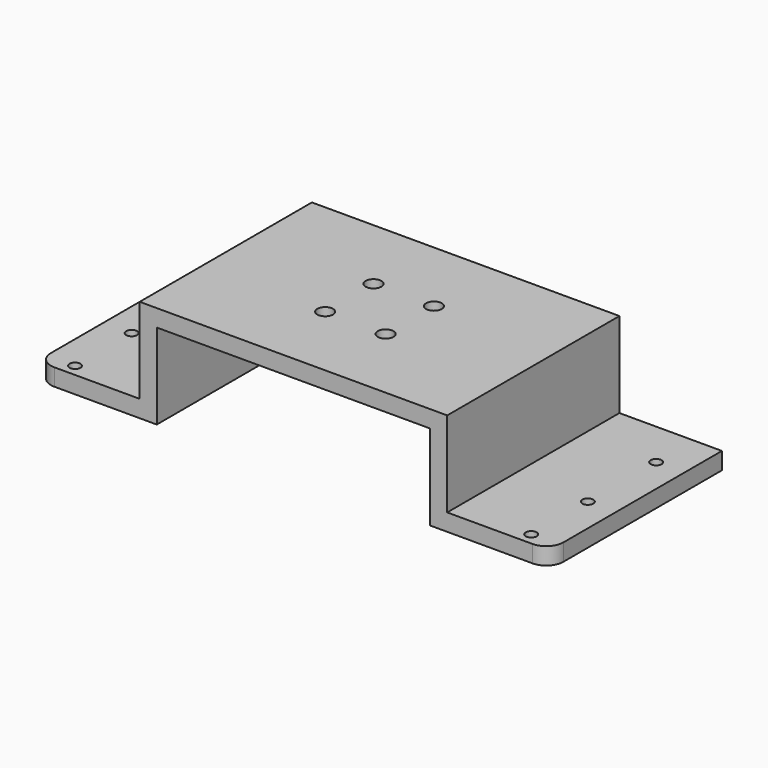
from build123d import *

# Parameters (mm, degrees)
PAD008_DEPTH    = 63
FILLET003_R     = 5
SKETCH052_R     = 1.6
POCKET033_DEPTH = 5
SKETCH053_R     = 2.3
POCKET034_DEPTH = 5


with BuildPart() as part:
    # Sketch051 → Pad008 (new body)
    with BuildSketch(Plane.XZ):
        Polygon((-75, 0), (-75, 5), (-45, 5), (-45, 30), (45, 30), (45, 5), (75, 5), (75, 0), (40, 0), (40, 25), (-40, 25), (-40, 0), align=None)
    extrude(amount=PAD008_DEPTH)

    # Fillet003
    fillet003_edges = [part.edges().sort_by_distance(p)[0] for p in [
        (75, -63, 2.5),
        (-75, -63, 2.5),
    ]]
    fillet(fillet003_edges, radius=FILLET003_R)

    # Sketch052 (on Face11 of Fillet003) → Pocket033 (cut)
    with BuildSketch(Plane(origin=(0, 0, 5), x_dir=(-1, 0, 0), z_dir=(0, 0, 1))):
        with Locations((-66.75, 13.75)):
            Circle(SKETCH052_R)
        with Locations((-66.75, 38.75)):
            Circle(SKETCH052_R)
        with Locations((-66.75, 59.45)):
            Circle(SKETCH052_R)
        with Locations((66.75, 59.45)):
            Circle(SKETCH052_R)
        with Locations((66.75, 38.75)):
            Circle(SKETCH052_R)
        with Locations((66.75, 13.75)):
            Circle(SKETCH052_R)
    extrude(amount=-POCKET033_DEPTH, mode=Mode.SUBTRACT)

    # Sketch053 (on Face12 of Pocket033) → Pocket034 (cut)
    with BuildSketch(Plane(origin=(0, 0, 30), x_dir=(-1, 0, 0), z_dir=(0, 0, 1))):
        with Locations((8.8388347648, 40.3388347648)):
            Circle(SKETCH053_R)
        with Locations((8.8388347648, 22.6611652352)):
            Circle(SKETCH053_R)
        with Locations((-8.8388347648, 22.6611652352)):
            Circle(SKETCH053_R)
        with Locations((-8.8388347648, 40.3388347648)):
            Circle(SKETCH053_R)
    extrude(amount=-POCKET034_DEPTH, mode=Mode.SUBTRACT)


solid = part.part
